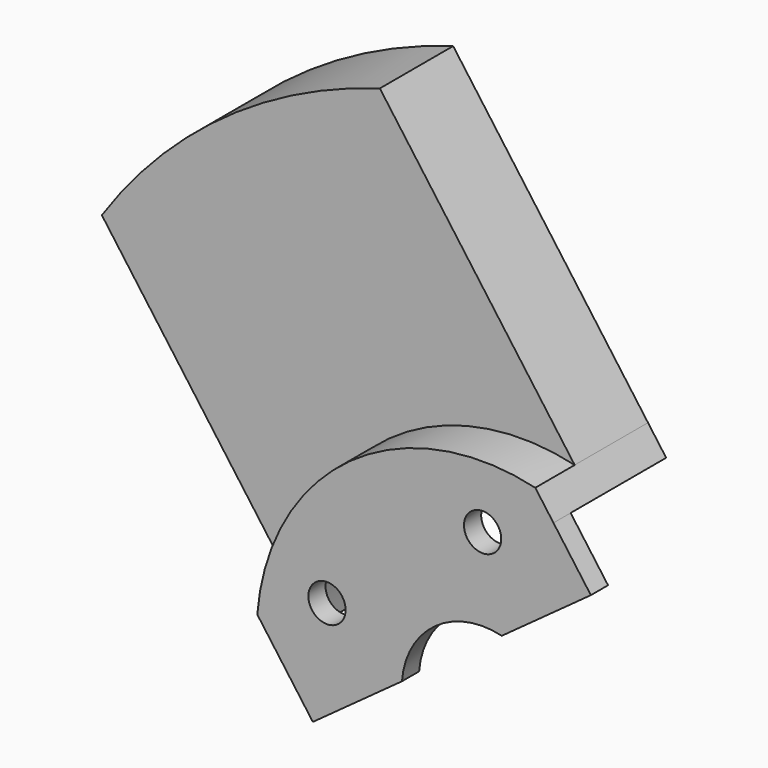
from build123d import *

# Parameters (mm, degrees)
F0_R     = 6.5
F1_DEPTH = 49.2
F2_DEPTH = 32
F3_DEPTH = 41.7


with BuildPart() as f1:
    # F0 (on Front) → F1 (new body)
    with BuildSketch(Plane.XZ):
        with BuildLine():
            Line((24.735266, 68.032924), (18.390851, 76.765262))
            ThreePointArc((18.390851, 76.765262), (-46.398298, 63.861779), (-78.691188, 6.231032))
            Line((-78.691188, 6.231032), (-72.346773, -2.501307))
            ThreePointArc((-72.346773, -2.501307), (-42.549774, 58.56474), (24.735266, 68.032924))
        make_face()
        with BuildLine():
            Line((37.798947, 50.052309), (24.735266, 68.032924))
            ThreePointArc((24.735266, 68.032924), (-42.549774, 58.56474), (-72.346773, -2.501307))
            Line((-72.346773, -2.501307), (-59.283092, -20.481921))
            Line((-59.283092, -20.481921), (-28.170116, 2.122979))
            ThreePointArc((-28.170116, 2.122979), (-16.604933, 22.85473), (6.685972, 27.447409))
            Line((6.685972, 27.447409), (37.798947, 50.052309))
        make_face()
        with Locations((-54.35288, 17.660321)):
            Circle(F0_R, mode=Mode.SUBTRACT)
        with Locations((0, 57.15)):
            Circle(F0_R, mode=Mode.SUBTRACT)
    extrude(amount=F1_DEPTH)

    # F0 (on Front) → F2 (join)
    with BuildSketch(Plane.XZ):
        with BuildLine():
            Line((18.390851, 76.765262), (-49.64947, 170.41473))
            ThreePointArc((-49.64947, 170.41473), (-104.331882, 143.600517), (-146.731509, 99.8805))
            Line((-146.731509, 99.8805), (-78.691188, 6.231032))
            ThreePointArc((-78.691188, 6.231032), (-46.398298, 63.861779), (18.390851, 76.765262))
        make_face()
    extrude(amount=F2_DEPTH)

    # F0 (on Front) → F3 (cut)
    with BuildSketch(Plane.XZ):
        with BuildLine():
            Line((37.798947, 50.052309), (24.735266, 68.032924))
            ThreePointArc((24.735266, 68.032924), (-42.549774, 58.56474), (-72.346773, -2.501307))
            Line((-72.346773, -2.501307), (-59.283092, -20.481921))
            Line((-59.283092, -20.481921), (-28.170116, 2.122979))
            ThreePointArc((-28.170116, 2.122979), (-16.604933, 22.85473), (6.685972, 27.447409))
            Line((6.685972, 27.447409), (37.798947, 50.052309))
        make_face()
        with Locations((-54.35288, 17.660321)):
            Circle(F0_R, mode=Mode.SUBTRACT)
        with Locations((0, 57.15)):
            Circle(F0_R, mode=Mode.SUBTRACT)
    extrude(amount=F3_DEPTH, mode=Mode.SUBTRACT)


solid = f1.part
